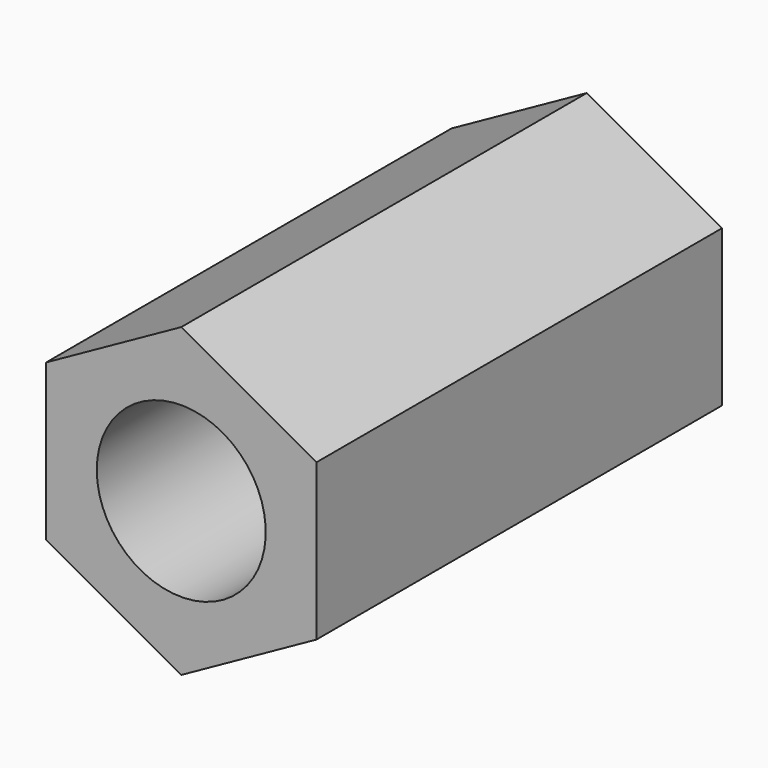
from build123d import *

# Parameters (mm, degrees)
F1_DEPTH = 12
F3_D     = 8


with BuildPart() as f1:
    # F0 (on Front) → F1 (new body, symmetric)
    with BuildSketch(Plane.XZ):
        Polygon((0, 7.25), (-6.4, 3.695042), (-6.4, -3.695042), (0, -7.25), (6.4, -3.695042), (6.4, 3.695042), align=None)
    extrude(amount=F1_DEPTH, both=True)

    # F3 (through all)
    with Locations(Plane.XZ.offset(12)):
        with Locations((0, 0)):
            Hole(F3_D / 2)


solid = f1.part
